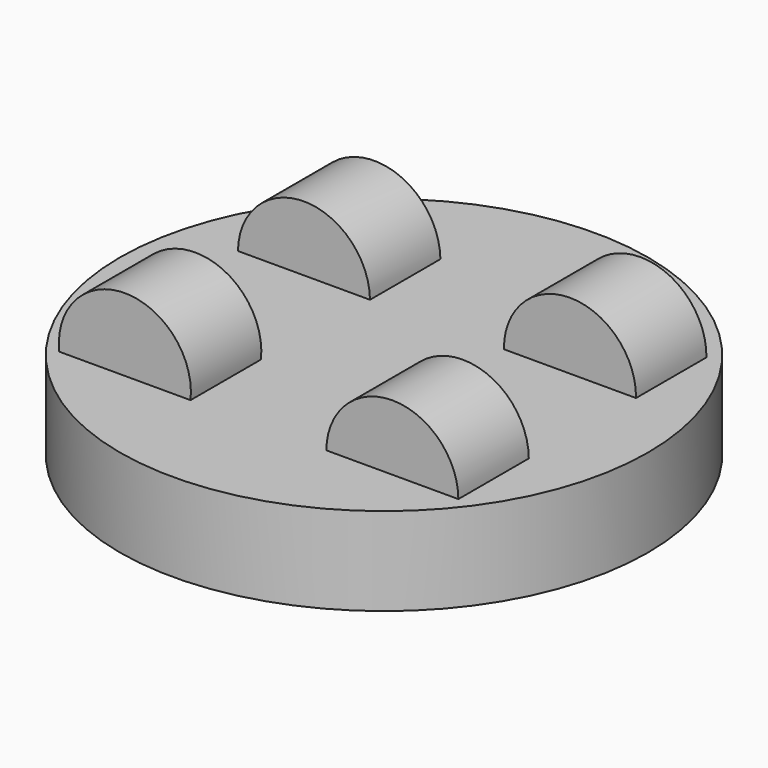
from build123d import *

# Parameters (mm, degrees)
F0_R      = 76.2
F1_DEPTH  = 25.4
F4_R      = 19.05
F5_DEPTH  = 12.7
F7_R      = 19.05
F8_DEPTH  = 12.7
F9_R      = 19.05
F10_DEPTH = 12.7
F11_R     = 19.05
F12_DEPTH = 12.7


with BuildPart() as f1:
    # F0 (on Top) → F1 (new body)
    with BuildSketch(Plane.XY):
        Circle(F0_R)
    extrude(amount=F1_DEPTH)

    # F4 (on plane+point) → F5 (join, symmetric)
    with BuildSketch(Plane.XZ.offset(-31.75)):
        with Locations((38.4162291884, 25.6418008357)):
            Circle(F4_R)
    extrude(amount=F5_DEPTH, both=True)

    # F7 (on plane+point) → F8 (join, symmetric)
    with BuildSketch(Plane.XZ.offset(31.75)):
        with Locations((37.968441844, 25.2595245838)):
            Circle(F7_R)
    extrude(amount=F8_DEPTH, both=True)

    # F9 (on plane+point) → F10 (join, symmetric)
    with BuildSketch(Plane.XZ.offset(-31.75)):
        with Locations((-38.3299067616, 25.1507181674)):
            Circle(F9_R)
    extrude(amount=F10_DEPTH, both=True)

    # F11 (on plane+point) → F12 (join, symmetric)
    with BuildSketch(Plane.XZ.offset(31.75)):
        with Locations((-39.1971170902, 27.3897647858)):
            Circle(F11_R)
    extrude(amount=F12_DEPTH, both=True)


solid = f1.part
